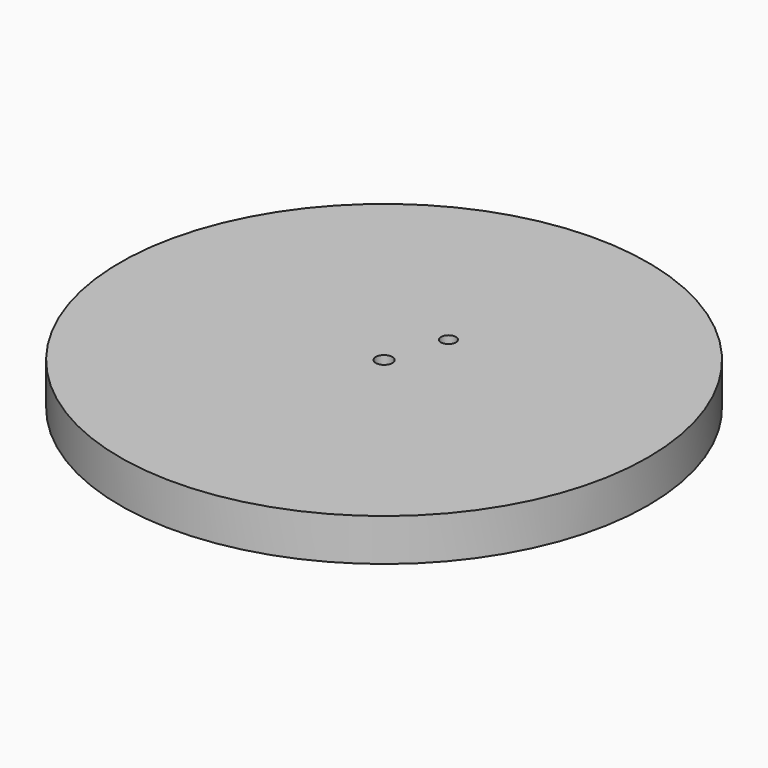
from build123d import *

# Parameters (mm, degrees)
F0_R     = 31.75
F1_DEPTH = 5.08
F2_R     = 1
F3_DEPTH = 5.081
F4_R     = 0.897754
F5_DEPTH = 5.081


with BuildPart() as f1:
    # F0 (on Top) → F1 (new body)
    with BuildSketch(Plane.XY):
        Circle(F0_R)
    extrude(amount=F1_DEPTH)

    # F2 (on face) → F3 (cut, through all)
    with BuildSketch(Plane(origin=(0, 0, 0), x_dir=(1, 0, 0), z_dir=(0, 0, -1))):
        Circle(F2_R)
    extrude(amount=-F3_DEPTH, mode=Mode.SUBTRACT)

    # F4 (on face) → F5 (cut, through all)
    with BuildSketch(Plane.XY.offset(5.08)):
        with Locations((2.140864, 7.005748)):
            Circle(F4_R)
    extrude(amount=-F5_DEPTH, mode=Mode.SUBTRACT)


solid = f1.part
